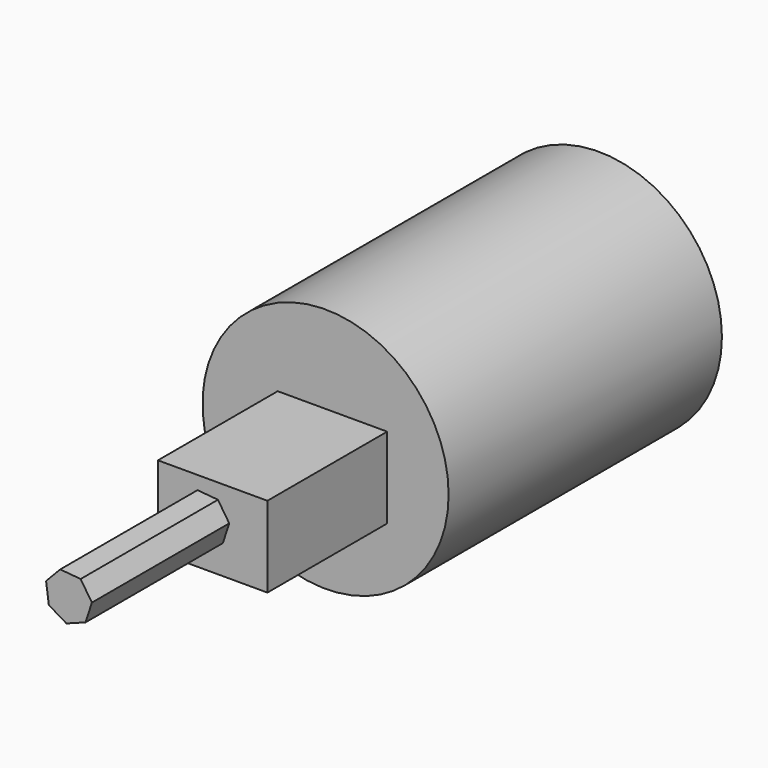
from build123d import *

# Parameters (mm, degrees)
F0_R     = 55.531356
F1_DEPTH = 154.178
F2_W     = 49.409683
F2_H     = 36.495792
F3_DEPTH = 67.564
F5_DEPTH = 25.4
F6_DEPTH = 77.47


with BuildPart() as f1:
    # F0 (on Front) → F1 (new body)
    with BuildSketch(Plane.XZ):
        Circle(F0_R)
    extrude(amount=F1_DEPTH)

    # F2 (on face) → F3 (join)
    with BuildSketch(Plane.XZ.offset(154.178)):
        with Locations((3.088105, -2.245895)):
            Rectangle(F2_W, F2_H)
    extrude(amount=F3_DEPTH)


with BuildPart() as f5:
    # F4 (on face) → F5 (new body)
    with BuildSketch(Plane.XZ.offset(221.742)):
        Polygon((-0.957422, -10.605928), (7.695106, -7.361231), (10.553062, 1.426624), (5.464347, 9.140202), (-3.739133, 9.971021), (-10.126969, 3.293458), (-8.888991, -5.864146), align=None)
    extrude(amount=F5_DEPTH)


with BuildPart() as f6:
    # F4 (on face) → F6 (new body)
    with BuildSketch(Plane.XZ.offset(221.742)):
        Polygon((-0.957422, -10.605928), (7.695106, -7.361231), (10.553062, 1.426624), (5.464347, 9.140202), (-3.739133, 9.971021), (-10.126969, 3.293458), (-8.888991, -5.864146), align=None)
    extrude(amount=F6_DEPTH)


solid = Compound([f1.part, f5.part, f6.part])
